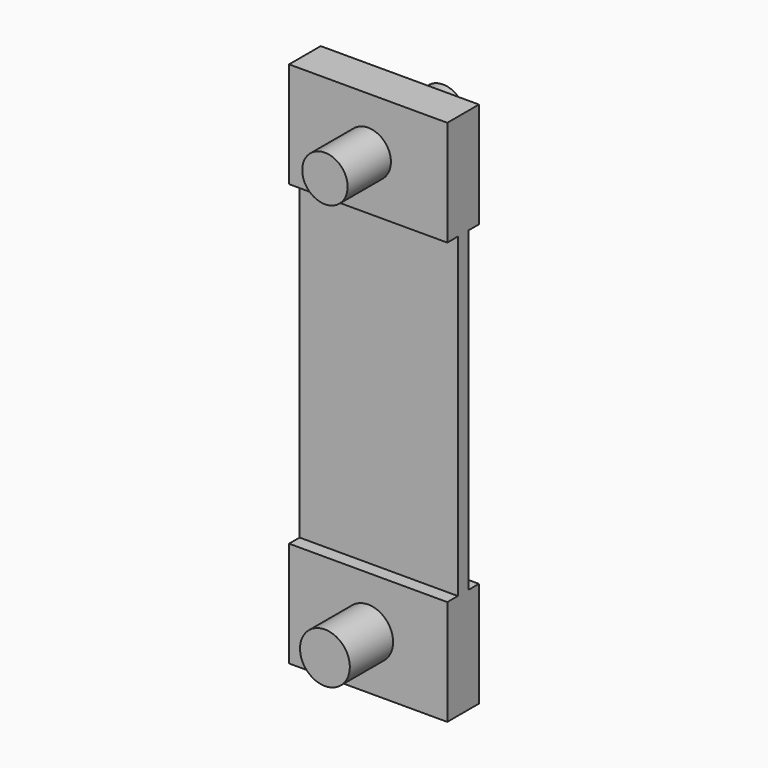
from build123d import *

# Parameters (mm, degrees)
F0_W     = 9.525
F0_H     = 19.05
F1_DEPTH = 0.396875
F0_H_2   = 6.35
F0_R     = 1.367696
F0_R_2   = 1.5
F2_DEPTH = 1.190625
F3_DEPTH = 4.445


with BuildPart() as f1:
    # F0 (on Front) → F1 (new body, symmetric)
    with BuildSketch(Plane.XZ):
        with Locations((-25.237318, 31.262366)):
            Rectangle(F0_W, F0_H)
    extrude(amount=F1_DEPTH, both=True)

    # F0 (on Front) → F2 (join, symmetric)
    with BuildSketch(Plane.XZ):
        with Locations((-25.237318, 43.962366)):
            Rectangle(F0_W, F0_H_2)
        with Locations((-25.237318, 43.962366)):
            Circle(F0_R, mode=Mode.SUBTRACT)
        with Locations((-25.237318, 18.562366)):
            Rectangle(F0_W, F0_H_2)
        with Locations((-25.237318, 18.562366)):
            Circle(F0_R_2, mode=Mode.SUBTRACT)
    extrude(amount=F2_DEPTH, both=True)

    # F0 (on Front) → F3 (join, symmetric)
    with BuildSketch(Plane.XZ):
        with Locations((-25.237318, 43.962366)):
            Circle(F0_R)
        with Locations((-25.237318, 18.562366)):
            Circle(F0_R_2)
    extrude(amount=F3_DEPTH, both=True)


solid = f1.part
